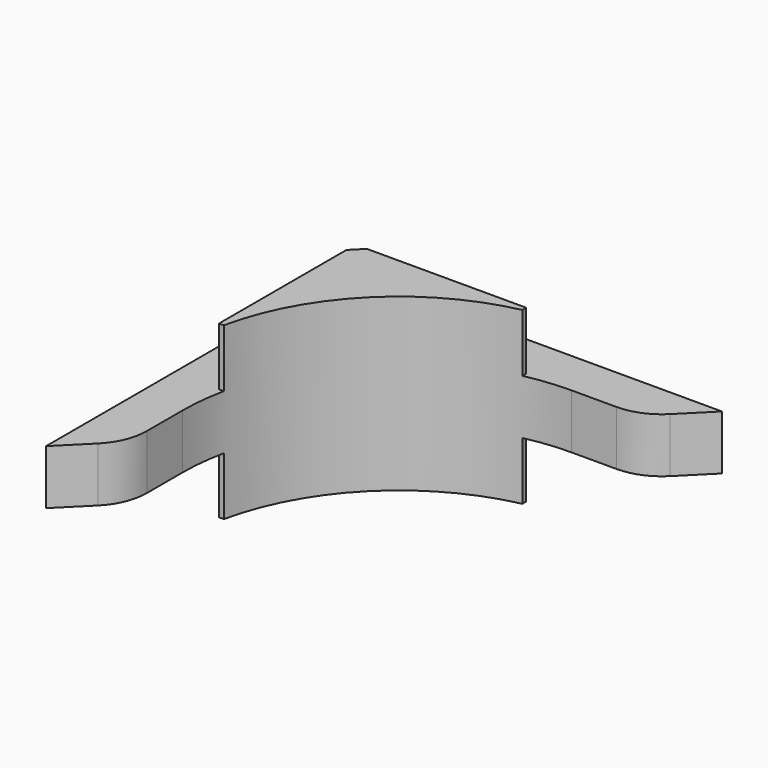
from build123d import *

# Parameters (mm, degrees)
PAD_DEPTH    = 7.5
PAD001_DEPTH = 2.4
FILLET_R     = 5
POCKET_DEPTH = 103.141808
CHAMFER_SIZE = 1


with BuildPart() as part:
    # Sketch → Pad (new body, symmetric)
    with BuildSketch(Plane.XY):
        with BuildLine():
            Line((0, 0), (0, -19))
            ThreePointArc((19, 0), (5.564971, -5.564971), (0, -19))
            Line((19, 0), (0, 0))
        make_face()
    extrude(amount=PAD_DEPTH, both=True)

    # Sketch001 → Pad001 (join, symmetric)
    with BuildSketch(Plane.XY):
        Polygon((0, 0), (0, -25), (-4, -29), (-4, -4), (4, 4), (29, 4), (25, 0), align=None)
    extrude(amount=PAD001_DEPTH, both=True)

    # Fillet
    fillet_edges = [part.edges().sort_by_distance(p)[0] for p in [
        (0, -25, 0),
        (25, 0, 0),
    ]]
    fillet(fillet_edges, radius=FILLET_R)

    # Sketch002 (on Face8 of Fillet) → Pocket (cut, through all)
    with BuildSketch(Plane.XY.offset(2.4)):
        Polygon((-2, -15), (15, -15), (15, 2), (23, 2), (23, -23), (-2, -23), align=None)
    pocket = extrude(amount=POCKET_DEPTH, mode=Mode.SUBTRACT)

    # Mirrored: Pocket across XY
    add(pocket.mirror(Plane.XY), mode=Mode.SUBTRACT)

    # Chamfer
    chamfer_edges = [part.edges().sort_by_distance(p)[0] for p in [
        (0, 0, 4.95),
        (0, 0, -4.95),
    ]]
    chamfer(chamfer_edges, length=CHAMFER_SIZE)


solid = part.part
